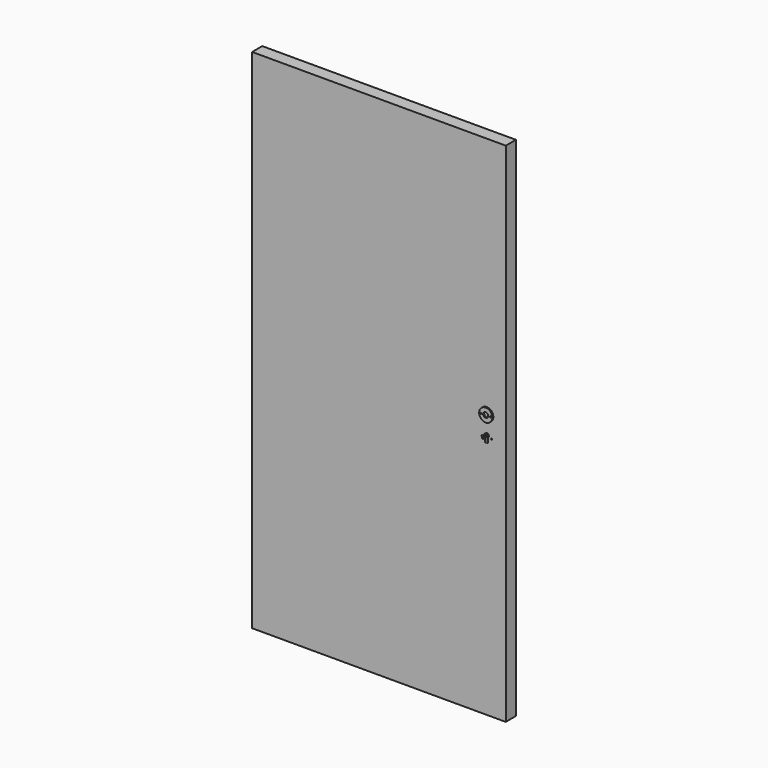
from build123d import *

# Parameters (mm, degrees)
F0_W     = 1000
F0_H     = 2000
F1_DEPTH = 50
F3_DEPTH = 3.5
F2_R     = 26
F2_R_2   = 2.5
F2_R_3   = 10
F4_DEPTH = 5
F5_DEPTH = 50
F7_DEPTH = 15.8


with BuildPart() as f1:
    # F0 (on Front) → F1 (new body)
    with BuildSketch(Plane.XZ):
        with Locations((-425, 30)):
            Rectangle(F0_W, F0_H)
    extrude(amount=-F1_DEPTH)

    # F2 (on Front) → F5 (cut, through all)
    with BuildSketch(Plane.XZ):
        with Locations((-19, -7)):
            Circle(F2_R_2)
        with Locations((19, -7)):
            Circle(F2_R_2)
        with Locations((19, 72.5)):
            Circle(F2_R_2)
        with Locations((-19, 72.5)):
            Circle(F2_R_2)
    extrude(amount=-F5_DEPTH, mode=Mode.SUBTRACT)


with BuildPart() as f3:
    # F2 (on Front) → F3 (new body)
    with BuildSketch(Plane.XZ):
        with BuildLine():
            ThreePointArc((5, -6.8738635424), (7.5746287038, -3.8568121551), (8.5, 0))
            ThreePointArc((8.5, 0), (-3.8568121551, 7.5746287038), (-5, -6.8738635424))
            Line((-5, -6.8738635424), (-5, 0))
            Line((-5, 0), (-4, 0))
            ThreePointArc((-4, 0), (0, 4), (4, 0))
            Line((4, 0), (5, 0))
            Line((5, 0), (5, -6.8738635424))
        make_face()
        with BuildLine():
            Line((-5, 0), (-5, -6.8738635424))
            ThreePointArc((-5, -6.8738635424), (0, -8.5), (5, -6.8738635424))
            Line((5, -6.8738635424), (5, 0))
            Line((5, 0), (4, 0))
            ThreePointArc((4, 0), (0, -4), (-4, 0))
            Line((-4, 0), (-5, 0))
        make_face()
        with BuildLine():
            ThreePointArc((5, -6.8738635424), (0, -8.5), (-5, -6.8738635424))
            Line((-5, -6.8738635424), (-5, -24.5))
            Line((-5, -24.5), (5, -24.5))
            Line((5, -24.5), (5, -6.8738635424))
        make_face()
        with BuildLine():
            Line((4, 0), (-4, 0))
            ThreePointArc((-4, 0), (0, -4), (4, 0))
        make_face()
        with BuildLine():
            ThreePointArc((4, 0), (0, 4), (-4, 0))
            Line((-4, 0), (4, 0))
        make_face()
    extrude(amount=F3_DEPTH)

    # F6 (on face) → F7 (join)
    with BuildSketch(Plane.XZ.offset(3.5)):
        with BuildLine():
            ThreePointArc((-2.7013885318, 2.95), (-1.6115901887, -3.6609803419), (4, 0))
            ThreePointArc((4, 0), (3.6609803419, 1.6115901887), (2.7013885318, 2.95))
            Line((2.7013885318, 2.95), (-2.7013885318, 2.95))
        make_face()
    extrude(amount=F7_DEPTH)


with BuildPart() as f4:
    # F2 (on Front) → F4 (new body)
    with BuildSketch(Plane.XZ):
        with Locations((0, 72.5)):
            Circle(F2_R)
        with Locations((-19, 72.5)):
            Circle(F2_R_2, mode=Mode.SUBTRACT)
        with Locations((0, 72.5)):
            Circle(F2_R_3, mode=Mode.SUBTRACT)
        with Locations((19, 72.5)):
            Circle(F2_R_2, mode=Mode.SUBTRACT)
    extrude(amount=F4_DEPTH)


solid = Compound([f1.part, f3.part, f4.part])
